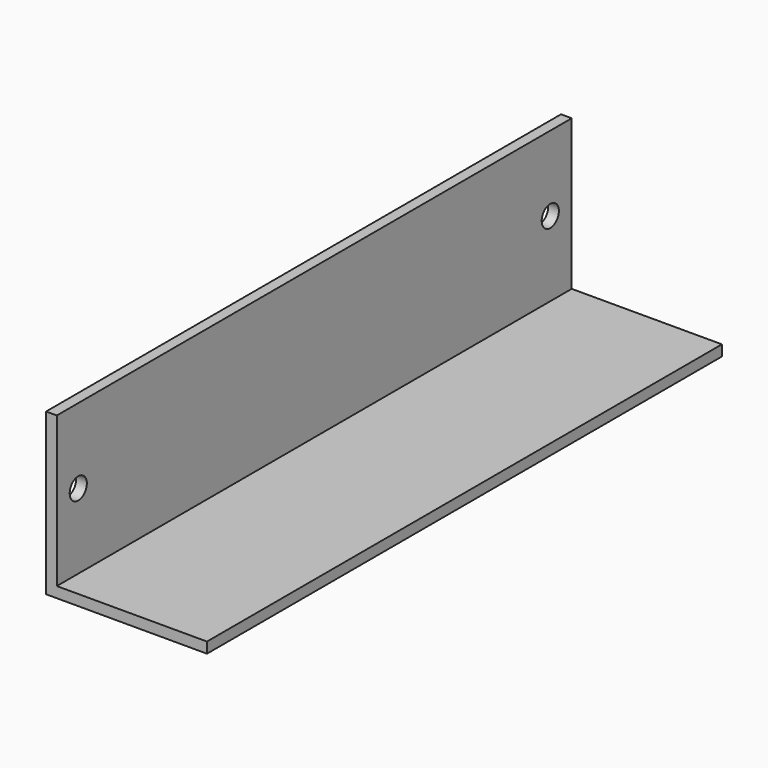
from build123d import *

# Parameters (mm, degrees)
F1_DEPTH = 152.4
F2_R     = 2.54
F3_DEPTH = 25.4


with BuildPart() as f1:
    # F0 (on Front) → F1 (new body)
    with BuildSketch(Plane.XZ):
        Polygon((-38.1, 0), (0, 0), (0, 2.54), (-35.56, 2.54), (-35.56, 38.1), (-38.1, 38.1), align=None)
    extrude(amount=-F1_DEPTH)

    # F2 (on face) → F3 (cut)
    with BuildSketch(Plane.YZ.offset(-35.56)):
        with BuildLine():
            ThreePointArc((3.81, 20.32), (6.35, 17.78), (8.89, 20.32))
            ThreePointArc((8.89, 20.32), (6.35, 22.86), (3.81, 20.32))
        make_face()
        with Locations((146.05, 20.32)):
            Circle(F2_R)
    extrude(amount=-F3_DEPTH, mode=Mode.SUBTRACT)


solid = f1.part
